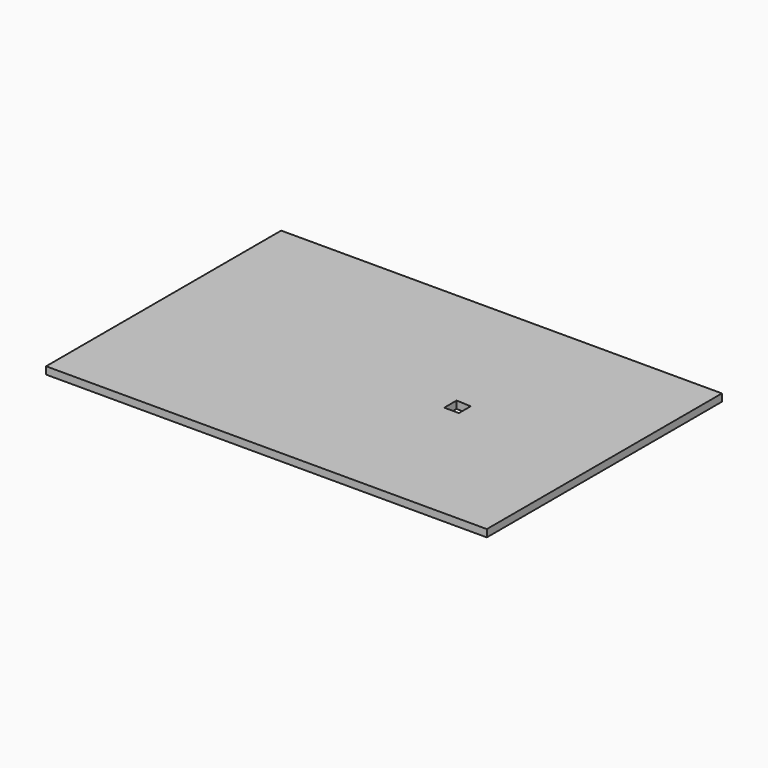
from build123d import *

# Parameters (mm, degrees)
F0_W     = 600
F0_H     = 400
F1_DEPTH = 10


with BuildPart() as f1:
    # F0 (on Top) → F1 (new body)
    with BuildSketch(Plane.XY):
        with Locations((-100, 0)):
            Rectangle(F0_W, F0_H)
        Polygon((-10, -10), (-10, 11), (10, 10), (10, -10), align=None, mode=Mode.SUBTRACT)
    extrude(amount=F1_DEPTH)


solid = f1.part
